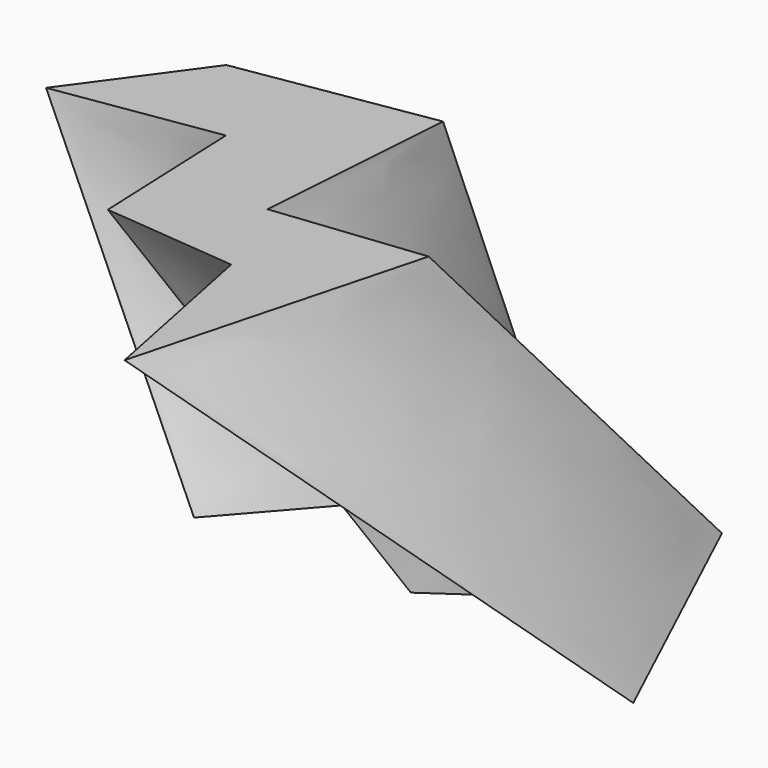
from build123d import *


with BuildPart() as f3:
    # F2 (on offset) → F3 section 0
    with BuildSketch(Plane.XY.offset(100)):
        Polygon((-6.788957, 9.269783), (-66.056721, -0.36814), (-92.551746, -36.82325), (-43.129723, -29.159885), (-41.150993, -77.22397), (-0.000611, -81.044888), (11.12411, -136.100963), (34.581766, -47.963835), (-11.257068, -52.983447), align=None)
    # F0 (on Top) → F3 section 1
    with BuildSketch(Plane.XY):
        Polygon((-8.343563, 50.560787), (-47.550168, 5.081126), (-44.413641, -39.875783), (-11.480091, -2.237441), (20.930702, -37.784763), (54.909762, -14.2608), (98.821156, -49.285367), (60.137309, 33.309881), (28.249269, 0), align=None)
    loft()


solid = f3.part
